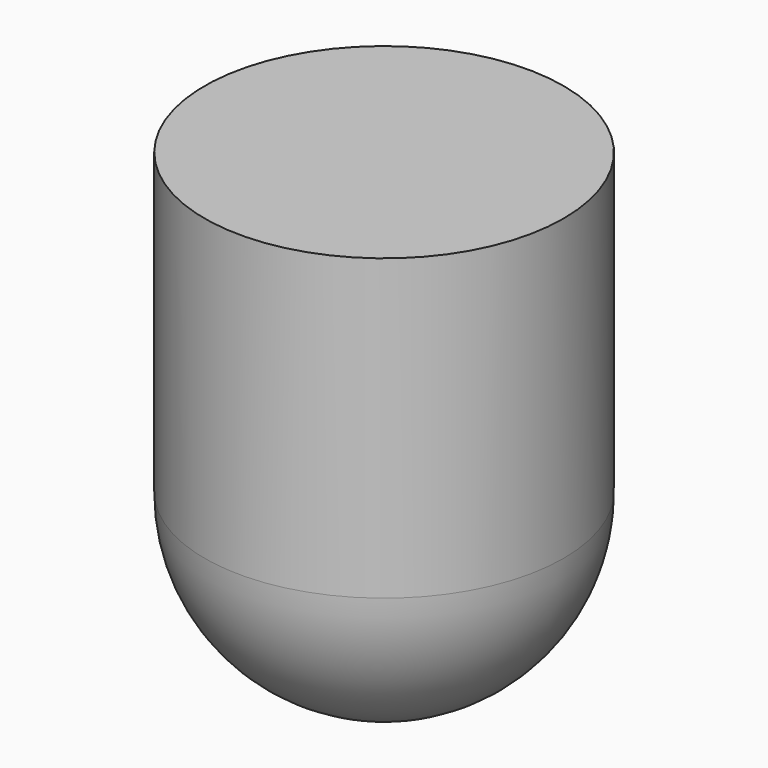
from build123d import *

# Parameters (mm, degrees)
CYLINDER002_R     = 1.5
CYLINDER002_DEPTH = 2.5


with BuildPart() as cilindro002:
    # Cylinder002 → Cylinder002 (new body)
    with BuildSketch(Plane.XY):
        Circle(CYLINDER002_R)
    extrude(amount=CYLINDER002_DEPTH)


with BuildPart() as ir_photo:
    # Sphere001 → Sphere001 (revolve)
    with BuildSketch(Plane.XZ):
        with BuildLine():
            ThreePointArc((0, -1.5), (1.5, 0), (0, 1.5))
            Line((0, 1.5), (0, -1.5))
        make_face()
    revolve(axis=Axis((0, 0, 0), (0, 0, 1)))

    # Fusion003: union Cilindro002
    add(cilindro002.part)


with BuildPart() as ir_photo_1:
    # Fusion003 placement: moved
    add(ir_photo.part.moved(Location((11.85, 4, -4))))


solid = ir_photo_1.part
